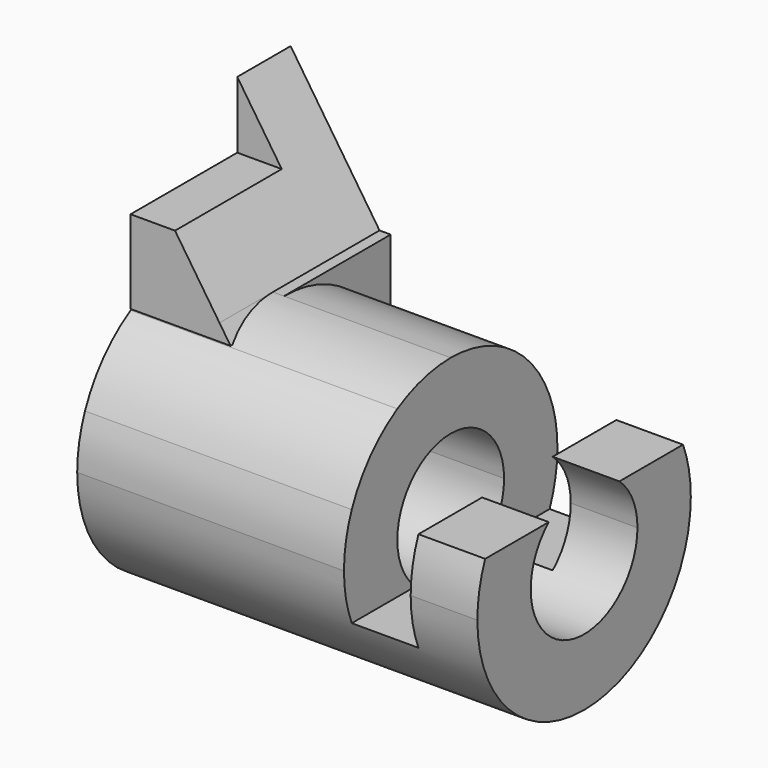
from build123d import *

# Parameters (mm, degrees)
F2_DEPTH  = 25.4
F3_DEPTH  = 254
F4_DEPTH  = 105.41
F5_DEPTH  = 381
F6_DEPTH  = 127
F8_DEPTH  = 19.05
F9_DEPTH  = 12.7
F10_DEPTH = 254


with BuildPart() as f2:
    # F1 (on Front) → F2 (new body, symmetric)
    with BuildSketch(Plane.XZ):
        Polygon((0, -25.4), (0, 0), (0, 9.525), (-12.7, 9.525), (-12.7, -9.525), (-25.4, -9.525), (-25.4, 25.4), (-59.2666666667, 25.4), (-57.15, 22.225), (-76.2, 22.225), (-76.2, -25.4), align=None)
        Polygon((-76.2, 25.4), (-76.2, 22.225), (-57.15, 22.225), (-59.2666666667, 25.4), align=None)
        Polygon((-76.2, 50.8), (-76.2, 25.4), (-59.2666666667, 25.4), align=None)
    extrude(amount=F2_DEPTH, both=True)

    # F0 (on Right) → F3 (cut)
    with BuildSketch(Plane.YZ):
        with BuildLine():
            ThreePointArc((-8.4002604126, 9.525), (-5.2252604126, -11.5752604126), (12.7, 0))
            ThreePointArc((12.7, 0), (11.5752604126, 5.2252604126), (8.4002604126, 9.525))
            ThreePointArc((8.4002604126, 9.525), (0, 12.7), (-8.4002604126, 9.525))
        make_face()
    extrude(amount=-F3_DEPTH, mode=Mode.SUBTRACT)

    # F0 (on Right) → F4 (cut)
    with BuildSketch(Plane.YZ):
        with BuildLine():
            ThreePointArc((-12.7, 21.9970452561), (-6.5740037456, 24.5345159877), (0, 25.4))
            Line((0, 25.4), (-12.7, 25.4))
            Line((-12.7, 25.4), (-12.7, 21.9970452561))
        make_face()
        with BuildLine():
            ThreePointArc((-25.4, 0), (-24.9323016085, 4.8518384664), (-23.5464301965, 9.525))
            ThreePointArc((-23.5464301965, 9.525), (-19.1660873346, 16.6679661712), (-12.7, 21.9970452561))
            Line((-12.7, 21.9970452561), (-12.7, 25.4))
            Line((-12.7, 25.4), (-25.4, 25.4))
            Line((-25.4, 25.4), (-25.4, 0))
        make_face()
    extrude(amount=-F4_DEPTH, mode=Mode.SUBTRACT)

    # F0 (on Right) → F5 (cut)
    with BuildSketch(Plane.YZ):
        with BuildLine():
            ThreePointArc((0, 25.4), (14.1990316571, 21.0605674188), (23.5464301965, 9.525))
            ThreePointArc((23.5464301965, 9.525), (24.9323016085, 4.8518384664), (25.4, 0))
            Line((25.4, 0), (25.4, 25.4))
            Line((25.4, 25.4), (0, 25.4))
        make_face()
    extrude(amount=-F5_DEPTH, mode=Mode.SUBTRACT)

    # F0 (on Right) → F6 (cut)
    with BuildSketch(Plane.YZ):
        Polygon((-25.4, 25.4), (-12.7, 25.4), (-12.7, 38.1), (12.7, 38.1), (12.7, 50.8), (-25.4, 50.8), align=None)
    extrude(amount=-F6_DEPTH, mode=Mode.SUBTRACT)

    # F7 (on face) → F8 (join)
    with BuildSketch(Plane(origin=(-76.2, 0, 0), x_dir=(0, -1, 0), z_dir=(-1, 0, 0))):
        with BuildLine():
            Line((0, 25.4), (-25.4, 25.4))
            Line((-25.4, 25.4), (-25.4, 0))
            ThreePointArc((-25.4, 0), (-17.9605122421, 17.9605122421), (0, 25.4))
        make_face()
    extrude(amount=-F8_DEPTH)

    # F1 (on Front) → F9 (join)
    with BuildSketch(Plane.XZ):
        Polygon((-76.2, 25.4), (-76.2, 22.225), (-57.15, 22.225), (-59.2666666667, 25.4), align=None)
    extrude(amount=F9_DEPTH)

    # F0 (on Right) → F10 (cut)
    with BuildSketch(Plane.YZ):
        with BuildLine():
            ThreePointArc((0, -25.4), (-17.9605122421, -17.9605122421), (-25.4, 0))
            Line((-25.4, 0), (-25.4, -25.4))
            Line((-25.4, -25.4), (0, -25.4))
        make_face()
        with BuildLine():
            Line((25.4, -25.4), (25.4, 0))
            ThreePointArc((25.4, 0), (17.9605122421, -17.9605122421), (0, -25.4))
            Line((0, -25.4), (25.4, -25.4))
        make_face()
    extrude(amount=-F10_DEPTH, mode=Mode.SUBTRACT)


solid = f2.part
